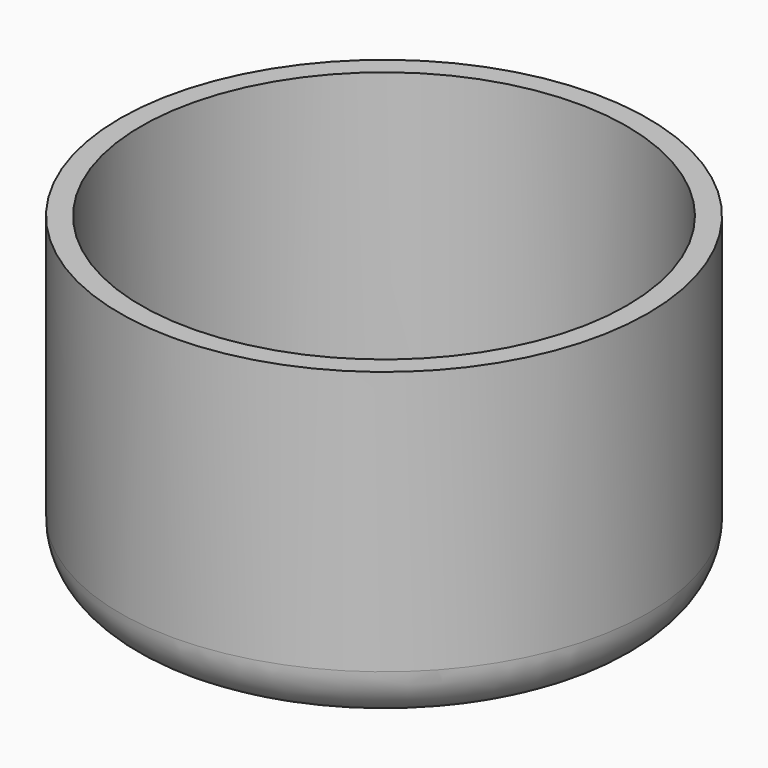
from build123d import *

# Parameters (mm, degrees)
F2_T = -2.54


with BuildPart() as f1:
    # F0 (on Front) → F1 (revolve)
    with BuildSketch(Plane.XZ):
        with BuildLine():
            Line((31.75, 0), (0, 0))
            Line((0, 0), (0, -38.1))
            Line((0, -38.1), (25.4, -38.1))
            ThreePointArc((25.4, -38.1), (29.890128, -36.240128), (31.75, -31.75))
            Line((31.75, -31.75), (31.75, 0))
        make_face()
    revolve(axis=Axis((0, 0, -6.767765), (0, 0, -1)))

    # F2
    f2_openings = [f1.faces().sort_by_distance(p)[0] for p in [
        (0, 0, 0),
    ]]
    offset(amount=F2_T, openings=f2_openings)


solid = f1.part
